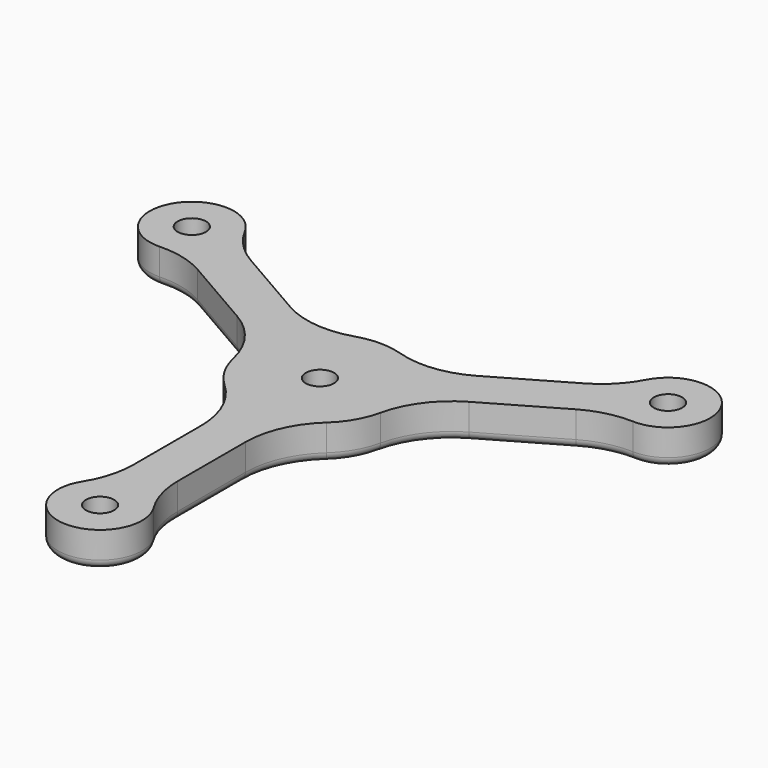
from build123d import *

# Parameters (mm, degrees)
F0_R     = 1.6
F1_DEPTH = 4
F2_DEPTH = 2
F3_R     = 1
F4_DEPTH = 4
F5_DEPTH = 2
F6_R     = 1


with BuildPart() as f1:
    # F0 (on Top) → F1 (new body)
    with BuildSketch(Plane.XY):
        with BuildLine():
            Line((2.5, -23.1697701183), (2.5, -13.638181697))
            ThreePointArc((2.5, -13.638181697), (3.346651772, -9.6112453657), (5.7432432432, -6.2661915905))
            ThreePointArc((5.7432432432, -6.2661915905), (7.3612159322, -4.25), (8.298302724, -1.8406987535))
            ThreePointArc((8.298302724, -1.8406987535), (9.9969085347, 1.9073372307), (13.061011811, 4.654027339))
            Line((13.061011811, 4.654027339), (21.3156095223, 9.4198215497))
            ThreePointArc((21.3156095223, 9.4198215497), (23.9017919503, 10.4638698942), (26.6757301969, 10.7530810631))
            ThreePointArc((26.6757301969, 10.7530810631), (30.9604081853, 17.875), (22.6503064681, 17.7253194834))
            ThreePointArc((22.6503064681, 17.7253194834), (21.0128731254, 15.4676240778), (18.8156095223, 13.7499485686))
            Line((18.8156095223, 13.7499485686), (10.561011811, 8.984154358))
            ThreePointArc((10.561011811, 8.984154358), (6.6502567627, 7.703908135), (2.5550594807, 8.106890344))
            ThreePointArc((2.5550594807, 8.106890344), (0, 8.5), (-2.5550594807, 8.106890344))
            ThreePointArc((-2.5550594807, 8.106890344), (-6.6502567627, 7.703908135), (-10.561011811, 8.984154358))
            Line((-10.561011811, 8.984154358), (-18.8156095223, 13.7499485686))
            ThreePointArc((-18.8156095223, 13.7499485686), (-21.0128731254, 15.4676240778), (-22.6503064681, 17.7253194834))
            ThreePointArc((-22.6503064681, 17.7253194834), (-30.9604081853, 17.875), (-26.6757301969, 10.7530810631))
            ThreePointArc((-26.6757301969, 10.7530810631), (-23.9017919503, 10.4638698942), (-21.3156095223, 9.4198215497))
            Line((-21.3156095223, 9.4198215497), (-13.061011811, 4.654027339))
            ThreePointArc((-13.061011811, 4.654027339), (-9.9969085347, 1.9073372307), (-8.298302724, -1.8406987535))
            ThreePointArc((-8.298302724, -1.8406987535), (-7.3612159322, -4.25), (-5.7432432432, -6.2661915905))
            ThreePointArc((-5.7432432432, -6.2661915905), (-3.346651772, -9.6112453657), (-2.5, -13.638181697))
            Line((-2.5, -13.638181697), (-2.5, -23.1697701183))
            ThreePointArc((-2.5, -23.1697701183), (-2.8889188248, -25.931493972), (-4.0254237288, -28.4784005466))
            ThreePointArc((-4.0254237288, -28.4784005466), (0, -35.75), (4.0254237288, -28.4784005466))
            ThreePointArc((4.0254237288, -28.4784005466), (2.8889188248, -25.931493972), (2.5, -23.1697701183))
        make_face()
        Polygon((1.6165807537, -28.2), (2.4248711592, -29.6000000495), (3.2331615075, -31), (2.4248710754, -32.4000000956), (1.6165807537, -33.8), (0, -33.8), (-1.6165807537, -33.8), (-2.4248711353, -32.3999999918), (-3.2331615075, -31), (-2.4248711124, -29.5999999685), (-1.6165807537, -28.2), (0, -28.2), align=None, mode=Mode.SUBTRACT)
        Polygon((-25.2302067636, 18.3), (-24.4219163221, 16.899999888), (-23.6136260099, 15.5), (-24.4219164419, 14.0999999044), (-25.2302067636, 12.7), (-26.8467875173, 12.7), (-28.463368271, 12.7), (-29.2716586526, 14.1000000082), (-30.0799490248, 15.5), (-29.2716586526, 16.8999999918), (-28.463368271, 18.3), (-26.8467875173, 18.3), align=None, mode=Mode.SUBTRACT)
        Polygon((0, -2.8), (-1.6165807537, -2.8), (-2.4248712235, -1.399999839), (-3.2331615075, 0), (-2.4248712552, 1.3999997842), (-1.6165807537, 2.8), (0, 2.8), (1.6165807537, 2.8), (2.4248711353, 1.3999999918), (3.2331615075, 0), (2.4248711257, -1.4000000085), (1.6165807537, -2.8), align=None, mode=Mode.SUBTRACT)
        Polygon((28.463368271, 18.3), (29.2716587126, 16.899999888), (30.0799490248, 15.5), (29.2716587126, 14.100000112), (28.463368271, 12.7), (26.8467875173, 12.7), (25.2302067636, 12.7), (24.421916382, 14.1000000082), (23.6136260099, 15.5), (24.421916285, 16.8999998239), (25.2302067636, 18.3), (26.8467875173, 18.3), align=None, mode=Mode.SUBTRACT)
        with BuildLine():
            ThreePointArc((-24.4219164419, 14.0999999044), (-24.142195218, 14.7753066204), (-24.0467875173, 15.5))
            ThreePointArc((-24.0467875173, 15.5), (-24.142195187, 16.2246932638), (-24.4219163221, 16.899999888))
            ThreePointArc((-24.4219163221, 16.899999888), (-25.4467874613, 17.9248710983), (-26.8467875173, 18.3))
            ThreePointArc((-26.8467875173, 18.3), (-28.2467875214, 17.9248711282), (-29.2716586526, 16.8999999918))
            ThreePointArc((-29.2716586526, 16.8999999918), (-29.6467875173, 15.5), (-29.2716586526, 14.1000000082))
            ThreePointArc((-29.2716586526, 14.1000000082), (-28.2467875214, 13.0751288718), (-26.8467875173, 12.7))
            ThreePointArc((-26.8467875173, 12.7), (-25.4467875651, 13.0751288418), (-24.4219164419, 14.0999999044))
        make_face()
        with Locations((-26.8467875173, 15.5)):
            Circle(F0_R, mode=Mode.SUBTRACT)
        with BuildLine():
            ThreePointArc((-2.4248712552, 1.3999997842), (-2.8, -3.16e-08), (-2.4248712235, -1.399999839))
            ThreePointArc((-2.4248712235, -1.399999839), (-1.4000000805, -2.4248710841), (0, -2.8))
            ThreePointArc((0, -2.8), (1.3999999958, -2.424871133), (2.4248711257, -1.4000000085))
            ThreePointArc((2.4248711257, -1.4000000085), (2.7045923123, -0.724693331), (2.8, 0))
            ThreePointArc((2.8, 0), (2.7045923148, 0.7246933217), (2.4248711353, 1.3999999918))
            ThreePointArc((2.4248711353, 1.3999999918), (1.4000000041, 2.4248711282), (0, 2.8))
            ThreePointArc((0, 2.8), (-1.4000001079, 2.4248710683), (-2.4248712552, 1.3999997842))
        make_face()
        Circle(F0_R, mode=Mode.SUBTRACT)
        with BuildLine():
            ThreePointArc((29.2716587126, 14.100000112), (29.5513798477, 14.7753067362), (29.6467875173, 15.5))
            ThreePointArc((29.6467875173, 15.5), (29.5513798477, 16.2246932638), (29.2716587126, 16.899999888))
            ThreePointArc((29.2716587126, 16.899999888), (28.2467875733, 17.9248710983), (26.8467875173, 18.3))
            ThreePointArc((26.8467875173, 18.3), (25.4467874293, 17.9248710798), (24.421916285, 16.8999998239))
            ThreePointArc((24.421916285, 16.8999998239), (24.0467875173, 15.499999903), (24.421916382, 14.1000000082))
            ThreePointArc((24.421916382, 14.1000000082), (25.4467875132, 13.0751288718), (26.8467875173, 12.7))
            ThreePointArc((26.8467875173, 12.7), (28.2467875733, 13.0751289017), (29.2716587126, 14.100000112))
        make_face()
        with Locations((26.8467875173, 15.5)):
            Circle(F0_R, mode=Mode.SUBTRACT)
        with BuildLine():
            ThreePointArc((2.4248710754, -32.4000000956), (2.7045922993, -31.7246933796), (2.8, -31))
            ThreePointArc((2.8, -31), (2.704592321, -30.2753067013), (2.4248711592, -29.6000000495))
            ThreePointArc((2.4248711592, -29.6000000495), (1.4000000248, -28.5751288837), (0, -28.2))
            ThreePointArc((0, -28.2), (-1.3999999843, -28.5751288603), (-2.4248711124, -29.5999999685))
            ThreePointArc((-2.4248711124, -29.5999999685), (-2.8, -30.9999999771), (-2.4248711353, -32.3999999918))
            ThreePointArc((-2.4248711353, -32.3999999918), (-1.4000000041, -33.4248711282), (0, -33.8))
            ThreePointArc((0, -33.8), (1.3999999522, -33.4248711582), (2.4248710754, -32.4000000956))
        make_face()
        with Locations((0, -31)):
            Circle(F0_R, mode=Mode.SUBTRACT)
        with BuildLine():
            ThreePointArc((-29.2716586526, 16.8999999918), (-28.2467875214, 17.9248711282), (-26.8467875173, 18.3))
            Line((-26.8467875173, 18.3), (-28.463368271, 18.3))
            Line((-28.463368271, 18.3), (-29.2716586526, 16.8999999918))
        make_face()
        with BuildLine():
            ThreePointArc((-29.2716586526, 14.1000000082), (-29.6467875173, 15.5), (-29.2716586526, 16.8999999918))
            Line((-29.2716586526, 16.8999999918), (-30.0799490248, 15.5))
            Line((-30.0799490248, 15.5), (-29.2716586526, 14.1000000082))
        make_face()
        with BuildLine():
            Line((-28.463368271, 12.7), (-26.8467875173, 12.7))
            ThreePointArc((-26.8467875173, 12.7), (-28.2467875214, 13.0751288718), (-29.2716586526, 14.1000000082))
            Line((-29.2716586526, 14.1000000082), (-28.463368271, 12.7))
        make_face()
        with BuildLine():
            ThreePointArc((-26.8467875173, 18.3), (-25.4467874613, 17.9248710983), (-24.4219163221, 16.899999888))
            Line((-24.4219163221, 16.899999888), (-25.2302067636, 18.3))
            Line((-25.2302067636, 18.3), (-26.8467875173, 18.3))
        make_face()
        with BuildLine():
            ThreePointArc((-24.4219163221, 16.899999888), (-24.142195187, 16.2246932638), (-24.0467875173, 15.5))
            ThreePointArc((-24.0467875173, 15.5), (-24.142195218, 14.7753066204), (-24.4219164419, 14.0999999044))
            Line((-24.4219164419, 14.0999999044), (-23.6136260099, 15.5))
            Line((-23.6136260099, 15.5), (-24.4219163221, 16.899999888))
        make_face()
        with BuildLine():
            Line((-25.2302067636, 12.7), (-24.4219164419, 14.0999999044))
            ThreePointArc((-24.4219164419, 14.0999999044), (-25.4467875651, 13.0751288418), (-26.8467875173, 12.7))
            Line((-26.8467875173, 12.7), (-25.2302067636, 12.7))
        make_face()
        with BuildLine():
            Line((-1.6165807537, 2.8), (-2.4248712552, 1.3999997842))
            ThreePointArc((-2.4248712552, 1.3999997842), (-1.4000001079, 2.4248710683), (0, 2.8))
            Line((0, 2.8), (-1.6165807537, 2.8))
        make_face()
        with BuildLine():
            Line((1.6165807537, 2.8), (0, 2.8))
            ThreePointArc((0, 2.8), (1.4000000041, 2.4248711282), (2.4248711353, 1.3999999918))
            Line((2.4248711353, 1.3999999918), (1.6165807537, 2.8))
        make_face()
        with BuildLine():
            ThreePointArc((2.8, 0), (2.7045923123, -0.724693331), (2.4248711257, -1.4000000085))
            Line((2.4248711257, -1.4000000085), (3.2331615075, 0))
            Line((3.2331615075, 0), (2.4248711353, 1.3999999918))
            ThreePointArc((2.4248711353, 1.3999999918), (2.7045923148, 0.7246933217), (2.8, 0))
        make_face()
        with BuildLine():
            ThreePointArc((2.4248711257, -1.4000000085), (1.3999999958, -2.424871133), (0, -2.8))
            Line((0, -2.8), (1.6165807537, -2.8))
            Line((1.6165807537, -2.8), (2.4248711257, -1.4000000085))
        make_face()
        with BuildLine():
            Line((-2.4248712235, -1.399999839), (-1.6165807537, -2.8))
            Line((-1.6165807537, -2.8), (0, -2.8))
            ThreePointArc((0, -2.8), (-1.4000000805, -2.4248710841), (-2.4248712235, -1.399999839))
        make_face()
        with BuildLine():
            Line((-3.2331615075, 0), (-2.4248712235, -1.399999839))
            ThreePointArc((-2.4248712235, -1.399999839), (-2.8, -3.16e-08), (-2.4248712552, 1.3999997842))
            Line((-2.4248712552, 1.3999997842), (-3.2331615075, 0))
        make_face()
        with BuildLine():
            ThreePointArc((24.421916285, 16.8999998239), (25.4467874293, 17.9248710798), (26.8467875173, 18.3))
            Line((26.8467875173, 18.3), (25.2302067636, 18.3))
            Line((25.2302067636, 18.3), (24.421916285, 16.8999998239))
        make_face()
        with BuildLine():
            ThreePointArc((24.421916382, 14.1000000082), (24.0467875173, 15.499999903), (24.421916285, 16.8999998239))
            Line((24.421916285, 16.8999998239), (23.6136260099, 15.5))
            Line((23.6136260099, 15.5), (24.421916382, 14.1000000082))
        make_face()
        with BuildLine():
            Line((25.2302067636, 12.7), (26.8467875173, 12.7))
            ThreePointArc((26.8467875173, 12.7), (25.4467875132, 13.0751288718), (24.421916382, 14.1000000082))
            Line((24.421916382, 14.1000000082), (25.2302067636, 12.7))
        make_face()
        with BuildLine():
            Line((28.463368271, 12.7), (29.2716587126, 14.100000112))
            ThreePointArc((29.2716587126, 14.100000112), (28.2467875733, 13.0751289017), (26.8467875173, 12.7))
            Line((26.8467875173, 12.7), (28.463368271, 12.7))
        make_face()
        with BuildLine():
            ThreePointArc((29.2716587126, 16.899999888), (29.5513798477, 16.2246932638), (29.6467875173, 15.5))
            ThreePointArc((29.6467875173, 15.5), (29.5513798477, 14.7753067362), (29.2716587126, 14.100000112))
            Line((29.2716587126, 14.100000112), (30.0799490248, 15.5))
            Line((30.0799490248, 15.5), (29.2716587126, 16.899999888))
        make_face()
        with BuildLine():
            ThreePointArc((26.8467875173, 18.3), (28.2467875733, 17.9248710983), (29.2716587126, 16.899999888))
            Line((29.2716587126, 16.899999888), (28.463368271, 18.3))
            Line((28.463368271, 18.3), (26.8467875173, 18.3))
        make_face()
        with BuildLine():
            ThreePointArc((-2.4248711353, -32.3999999918), (-2.8, -30.9999999771), (-2.4248711124, -29.5999999685))
            Line((-2.4248711124, -29.5999999685), (-3.2331615075, -31))
            Line((-3.2331615075, -31), (-2.4248711353, -32.3999999918))
        make_face()
        with BuildLine():
            ThreePointArc((-2.4248711124, -29.5999999685), (-1.3999999843, -28.5751288603), (0, -28.2))
            Line((0, -28.2), (-1.6165807537, -28.2))
            Line((-1.6165807537, -28.2), (-2.4248711124, -29.5999999685))
        make_face()
        with BuildLine():
            ThreePointArc((0, -28.2), (1.4000000248, -28.5751288837), (2.4248711592, -29.6000000495))
            Line((2.4248711592, -29.6000000495), (1.6165807537, -28.2))
            Line((1.6165807537, -28.2), (0, -28.2))
        make_face()
        with BuildLine():
            ThreePointArc((2.4248711592, -29.6000000495), (2.704592321, -30.2753067013), (2.8, -31))
            ThreePointArc((2.8, -31), (2.7045922993, -31.7246933796), (2.4248710754, -32.4000000956))
            Line((2.4248710754, -32.4000000956), (3.2331615075, -31))
            Line((3.2331615075, -31), (2.4248711592, -29.6000000495))
        make_face()
        with BuildLine():
            Line((1.6165807537, -33.8), (2.4248710754, -32.4000000956))
            ThreePointArc((2.4248710754, -32.4000000956), (1.3999999522, -33.4248711582), (0, -33.8))
            Line((0, -33.8), (1.6165807537, -33.8))
        make_face()
        with BuildLine():
            Line((-1.6165807537, -33.8), (0, -33.8))
            ThreePointArc((0, -33.8), (-1.4000000041, -33.4248711282), (-2.4248711353, -32.3999999918))
            Line((-2.4248711353, -32.3999999918), (-1.6165807537, -33.8))
        make_face()
    extrude(amount=F1_DEPTH)

    # F0 (on Top) → F2 (cut)
    with BuildSketch(Plane.XY):
        with BuildLine():
            Line((-28.463368271, 12.7), (-26.8467875173, 12.7))
            ThreePointArc((-26.8467875173, 12.7), (-28.2467875214, 13.0751288718), (-29.2716586526, 14.1000000082))
            Line((-29.2716586526, 14.1000000082), (-28.463368271, 12.7))
        make_face()
        with BuildLine():
            ThreePointArc((-24.4219164419, 14.0999999044), (-24.142195218, 14.7753066204), (-24.0467875173, 15.5))
            ThreePointArc((-24.0467875173, 15.5), (-24.142195187, 16.2246932638), (-24.4219163221, 16.899999888))
            ThreePointArc((-24.4219163221, 16.899999888), (-25.4467874613, 17.9248710983), (-26.8467875173, 18.3))
            ThreePointArc((-26.8467875173, 18.3), (-28.2467875214, 17.9248711282), (-29.2716586526, 16.8999999918))
            ThreePointArc((-29.2716586526, 16.8999999918), (-29.6467875173, 15.5), (-29.2716586526, 14.1000000082))
            ThreePointArc((-29.2716586526, 14.1000000082), (-28.2467875214, 13.0751288718), (-26.8467875173, 12.7))
            ThreePointArc((-26.8467875173, 12.7), (-25.4467875651, 13.0751288418), (-24.4219164419, 14.0999999044))
        make_face()
        with Locations((-26.8467875173, 15.5)):
            Circle(F0_R, mode=Mode.SUBTRACT)
        with BuildLine():
            ThreePointArc((-29.2716586526, 14.1000000082), (-29.6467875173, 15.5), (-29.2716586526, 16.8999999918))
            Line((-29.2716586526, 16.8999999918), (-30.0799490248, 15.5))
            Line((-30.0799490248, 15.5), (-29.2716586526, 14.1000000082))
        make_face()
        with BuildLine():
            ThreePointArc((-29.2716586526, 16.8999999918), (-28.2467875214, 17.9248711282), (-26.8467875173, 18.3))
            Line((-26.8467875173, 18.3), (-28.463368271, 18.3))
            Line((-28.463368271, 18.3), (-29.2716586526, 16.8999999918))
        make_face()
        with BuildLine():
            ThreePointArc((-26.8467875173, 18.3), (-25.4467874613, 17.9248710983), (-24.4219163221, 16.899999888))
            Line((-24.4219163221, 16.899999888), (-25.2302067636, 18.3))
            Line((-25.2302067636, 18.3), (-26.8467875173, 18.3))
        make_face()
        with BuildLine():
            ThreePointArc((-24.4219163221, 16.899999888), (-24.142195187, 16.2246932638), (-24.0467875173, 15.5))
            ThreePointArc((-24.0467875173, 15.5), (-24.142195218, 14.7753066204), (-24.4219164419, 14.0999999044))
            Line((-24.4219164419, 14.0999999044), (-23.6136260099, 15.5))
            Line((-23.6136260099, 15.5), (-24.4219163221, 16.899999888))
        make_face()
        with BuildLine():
            Line((-25.2302067636, 12.7), (-24.4219164419, 14.0999999044))
            ThreePointArc((-24.4219164419, 14.0999999044), (-25.4467875651, 13.0751288418), (-26.8467875173, 12.7))
            Line((-26.8467875173, 12.7), (-25.2302067636, 12.7))
        make_face()
        with BuildLine():
            Line((-3.2331615075, 0), (-2.4248712235, -1.399999839))
            ThreePointArc((-2.4248712235, -1.399999839), (-2.8, -3.16e-08), (-2.4248712552, 1.3999997842))
            Line((-2.4248712552, 1.3999997842), (-3.2331615075, 0))
        make_face()
        with BuildLine():
            Line((-2.4248712235, -1.399999839), (-1.6165807537, -2.8))
            Line((-1.6165807537, -2.8), (0, -2.8))
            ThreePointArc((0, -2.8), (-1.4000000805, -2.4248710841), (-2.4248712235, -1.399999839))
        make_face()
        with BuildLine():
            ThreePointArc((2.4248711257, -1.4000000085), (1.3999999958, -2.424871133), (0, -2.8))
            Line((0, -2.8), (1.6165807537, -2.8))
            Line((1.6165807537, -2.8), (2.4248711257, -1.4000000085))
        make_face()
        with BuildLine():
            ThreePointArc((2.8, 0), (2.7045923123, -0.724693331), (2.4248711257, -1.4000000085))
            Line((2.4248711257, -1.4000000085), (3.2331615075, 0))
            Line((3.2331615075, 0), (2.4248711353, 1.3999999918))
            ThreePointArc((2.4248711353, 1.3999999918), (2.7045923148, 0.7246933217), (2.8, 0))
        make_face()
        with BuildLine():
            Line((1.6165807537, 2.8), (0, 2.8))
            ThreePointArc((0, 2.8), (1.4000000041, 2.4248711282), (2.4248711353, 1.3999999918))
            Line((2.4248711353, 1.3999999918), (1.6165807537, 2.8))
        make_face()
        with BuildLine():
            Line((-1.6165807537, 2.8), (-2.4248712552, 1.3999997842))
            ThreePointArc((-2.4248712552, 1.3999997842), (-1.4000001079, 2.4248710683), (0, 2.8))
            Line((0, 2.8), (-1.6165807537, 2.8))
        make_face()
        with BuildLine():
            ThreePointArc((-2.4248712552, 1.3999997842), (-2.8, -3.16e-08), (-2.4248712235, -1.399999839))
            ThreePointArc((-2.4248712235, -1.399999839), (-1.4000000805, -2.4248710841), (0, -2.8))
            ThreePointArc((0, -2.8), (1.3999999958, -2.424871133), (2.4248711257, -1.4000000085))
            ThreePointArc((2.4248711257, -1.4000000085), (2.7045923123, -0.724693331), (2.8, 0))
            ThreePointArc((2.8, 0), (2.7045923148, 0.7246933217), (2.4248711353, 1.3999999918))
            ThreePointArc((2.4248711353, 1.3999999918), (1.4000000041, 2.4248711282), (0, 2.8))
            ThreePointArc((0, 2.8), (-1.4000001079, 2.4248710683), (-2.4248712552, 1.3999997842))
        make_face()
        Circle(F0_R, mode=Mode.SUBTRACT)
        with BuildLine():
            ThreePointArc((29.2716587126, 14.100000112), (29.5513798477, 14.7753067362), (29.6467875173, 15.5))
            ThreePointArc((29.6467875173, 15.5), (29.5513798477, 16.2246932638), (29.2716587126, 16.899999888))
            ThreePointArc((29.2716587126, 16.899999888), (28.2467875733, 17.9248710983), (26.8467875173, 18.3))
            ThreePointArc((26.8467875173, 18.3), (25.4467874293, 17.9248710798), (24.421916285, 16.8999998239))
            ThreePointArc((24.421916285, 16.8999998239), (24.0467875173, 15.499999903), (24.421916382, 14.1000000082))
            ThreePointArc((24.421916382, 14.1000000082), (25.4467875132, 13.0751288718), (26.8467875173, 12.7))
            ThreePointArc((26.8467875173, 12.7), (28.2467875733, 13.0751289017), (29.2716587126, 14.100000112))
        make_face()
        with Locations((26.8467875173, 15.5)):
            Circle(F0_R, mode=Mode.SUBTRACT)
        with BuildLine():
            ThreePointArc((24.421916382, 14.1000000082), (24.0467875173, 15.499999903), (24.421916285, 16.8999998239))
            Line((24.421916285, 16.8999998239), (23.6136260099, 15.5))
            Line((23.6136260099, 15.5), (24.421916382, 14.1000000082))
        make_face()
        with BuildLine():
            Line((25.2302067636, 12.7), (26.8467875173, 12.7))
            ThreePointArc((26.8467875173, 12.7), (25.4467875132, 13.0751288718), (24.421916382, 14.1000000082))
            Line((24.421916382, 14.1000000082), (25.2302067636, 12.7))
        make_face()
        with BuildLine():
            Line((28.463368271, 12.7), (29.2716587126, 14.100000112))
            ThreePointArc((29.2716587126, 14.100000112), (28.2467875733, 13.0751289017), (26.8467875173, 12.7))
            Line((26.8467875173, 12.7), (28.463368271, 12.7))
        make_face()
        with BuildLine():
            ThreePointArc((29.2716587126, 16.899999888), (29.5513798477, 16.2246932638), (29.6467875173, 15.5))
            ThreePointArc((29.6467875173, 15.5), (29.5513798477, 14.7753067362), (29.2716587126, 14.100000112))
            Line((29.2716587126, 14.100000112), (30.0799490248, 15.5))
            Line((30.0799490248, 15.5), (29.2716587126, 16.899999888))
        make_face()
        with BuildLine():
            ThreePointArc((26.8467875173, 18.3), (28.2467875733, 17.9248710983), (29.2716587126, 16.899999888))
            Line((29.2716587126, 16.899999888), (28.463368271, 18.3))
            Line((28.463368271, 18.3), (26.8467875173, 18.3))
        make_face()
        with BuildLine():
            ThreePointArc((24.421916285, 16.8999998239), (25.4467874293, 17.9248710798), (26.8467875173, 18.3))
            Line((26.8467875173, 18.3), (25.2302067636, 18.3))
            Line((25.2302067636, 18.3), (24.421916285, 16.8999998239))
        make_face()
        with BuildLine():
            ThreePointArc((2.4248710754, -32.4000000956), (2.7045922993, -31.7246933796), (2.8, -31))
            ThreePointArc((2.8, -31), (2.704592321, -30.2753067013), (2.4248711592, -29.6000000495))
            ThreePointArc((2.4248711592, -29.6000000495), (1.4000000248, -28.5751288837), (0, -28.2))
            ThreePointArc((0, -28.2), (-1.3999999843, -28.5751288603), (-2.4248711124, -29.5999999685))
            ThreePointArc((-2.4248711124, -29.5999999685), (-2.8, -30.9999999771), (-2.4248711353, -32.3999999918))
            ThreePointArc((-2.4248711353, -32.3999999918), (-1.4000000041, -33.4248711282), (0, -33.8))
            ThreePointArc((0, -33.8), (1.3999999522, -33.4248711582), (2.4248710754, -32.4000000956))
        make_face()
        with Locations((0, -31)):
            Circle(F0_R, mode=Mode.SUBTRACT)
        with BuildLine():
            Line((-1.6165807537, -33.8), (0, -33.8))
            ThreePointArc((0, -33.8), (-1.4000000041, -33.4248711282), (-2.4248711353, -32.3999999918))
            Line((-2.4248711353, -32.3999999918), (-1.6165807537, -33.8))
        make_face()
        with BuildLine():
            Line((1.6165807537, -33.8), (2.4248710754, -32.4000000956))
            ThreePointArc((2.4248710754, -32.4000000956), (1.3999999522, -33.4248711582), (0, -33.8))
            Line((0, -33.8), (1.6165807537, -33.8))
        make_face()
        with BuildLine():
            ThreePointArc((2.4248711592, -29.6000000495), (2.704592321, -30.2753067013), (2.8, -31))
            ThreePointArc((2.8, -31), (2.7045922993, -31.7246933796), (2.4248710754, -32.4000000956))
            Line((2.4248710754, -32.4000000956), (3.2331615075, -31))
            Line((3.2331615075, -31), (2.4248711592, -29.6000000495))
        make_face()
        with BuildLine():
            ThreePointArc((0, -28.2), (1.4000000248, -28.5751288837), (2.4248711592, -29.6000000495))
            Line((2.4248711592, -29.6000000495), (1.6165807537, -28.2))
            Line((1.6165807537, -28.2), (0, -28.2))
        make_face()
        with BuildLine():
            ThreePointArc((-2.4248711124, -29.5999999685), (-1.3999999843, -28.5751288603), (0, -28.2))
            Line((0, -28.2), (-1.6165807537, -28.2))
            Line((-1.6165807537, -28.2), (-2.4248711124, -29.5999999685))
        make_face()
        with BuildLine():
            ThreePointArc((-2.4248711353, -32.3999999918), (-2.8, -30.9999999771), (-2.4248711124, -29.5999999685))
            Line((-2.4248711124, -29.5999999685), (-3.2331615075, -31))
            Line((-3.2331615075, -31), (-2.4248711353, -32.3999999918))
        make_face()
    extrude(amount=F2_DEPTH, mode=Mode.SUBTRACT)

    # F3
    f3_edges = [f1.edges().sort_by_distance(p)[0] for p in [
        (-2.5, -18.403976, 0),
    ]]
    fillet(f3_edges, radius=F3_R)


with BuildPart() as f4:
    # F0 (on Top) → F4 (new body)
    with BuildSketch(Plane.XY):
        with BuildLine():
            Line((2.5, -23.1697701183), (2.5, -13.638181697))
            ThreePointArc((2.5, -13.638181697), (3.346651772, -9.6112453657), (5.7432432432, -6.2661915905))
            ThreePointArc((5.7432432432, -6.2661915905), (7.3612159322, -4.25), (8.298302724, -1.8406987535))
            ThreePointArc((8.298302724, -1.8406987535), (9.9969085347, 1.9073372307), (13.061011811, 4.654027339))
            Line((13.061011811, 4.654027339), (21.3156095223, 9.4198215497))
            ThreePointArc((21.3156095223, 9.4198215497), (23.9017919503, 10.4638698942), (26.6757301969, 10.7530810631))
            ThreePointArc((26.6757301969, 10.7530810631), (30.9604081853, 17.875), (22.6503064681, 17.7253194834))
            ThreePointArc((22.6503064681, 17.7253194834), (21.0128731254, 15.4676240778), (18.8156095223, 13.7499485686))
            Line((18.8156095223, 13.7499485686), (10.561011811, 8.984154358))
            ThreePointArc((10.561011811, 8.984154358), (6.6502567627, 7.703908135), (2.5550594807, 8.106890344))
            ThreePointArc((2.5550594807, 8.106890344), (0, 8.5), (-2.5550594807, 8.106890344))
            ThreePointArc((-2.5550594807, 8.106890344), (-6.6502567627, 7.703908135), (-10.561011811, 8.984154358))
            Line((-10.561011811, 8.984154358), (-18.8156095223, 13.7499485686))
            ThreePointArc((-18.8156095223, 13.7499485686), (-21.0128731254, 15.4676240778), (-22.6503064681, 17.7253194834))
            ThreePointArc((-22.6503064681, 17.7253194834), (-30.9604081853, 17.875), (-26.6757301969, 10.7530810631))
            ThreePointArc((-26.6757301969, 10.7530810631), (-23.9017919503, 10.4638698942), (-21.3156095223, 9.4198215497))
            Line((-21.3156095223, 9.4198215497), (-13.061011811, 4.654027339))
            ThreePointArc((-13.061011811, 4.654027339), (-9.9969085347, 1.9073372307), (-8.298302724, -1.8406987535))
            ThreePointArc((-8.298302724, -1.8406987535), (-7.3612159322, -4.25), (-5.7432432432, -6.2661915905))
            ThreePointArc((-5.7432432432, -6.2661915905), (-3.346651772, -9.6112453657), (-2.5, -13.638181697))
            Line((-2.5, -13.638181697), (-2.5, -23.1697701183))
            ThreePointArc((-2.5, -23.1697701183), (-2.8889188248, -25.931493972), (-4.0254237288, -28.4784005466))
            ThreePointArc((-4.0254237288, -28.4784005466), (0, -35.75), (4.0254237288, -28.4784005466))
            ThreePointArc((4.0254237288, -28.4784005466), (2.8889188248, -25.931493972), (2.5, -23.1697701183))
        make_face()
        Polygon((1.6165807537, -28.2), (2.4248711592, -29.6000000495), (3.2331615075, -31), (2.4248710754, -32.4000000956), (1.6165807537, -33.8), (0, -33.8), (-1.6165807537, -33.8), (-2.4248711353, -32.3999999918), (-3.2331615075, -31), (-2.4248711124, -29.5999999685), (-1.6165807537, -28.2), (0, -28.2), align=None, mode=Mode.SUBTRACT)
        Polygon((-25.2302067636, 18.3), (-24.4219163221, 16.899999888), (-23.6136260099, 15.5), (-24.4219164419, 14.0999999044), (-25.2302067636, 12.7), (-26.8467875173, 12.7), (-28.463368271, 12.7), (-29.2716586526, 14.1000000082), (-30.0799490248, 15.5), (-29.2716586526, 16.8999999918), (-28.463368271, 18.3), (-26.8467875173, 18.3), align=None, mode=Mode.SUBTRACT)
        Polygon((0, -2.8), (-1.6165807537, -2.8), (-2.4248712235, -1.399999839), (-3.2331615075, 0), (-2.4248712552, 1.3999997842), (-1.6165807537, 2.8), (0, 2.8), (1.6165807537, 2.8), (2.4248711353, 1.3999999918), (3.2331615075, 0), (2.4248711257, -1.4000000085), (1.6165807537, -2.8), align=None, mode=Mode.SUBTRACT)
        Polygon((28.463368271, 18.3), (29.2716587126, 16.899999888), (30.0799490248, 15.5), (29.2716587126, 14.100000112), (28.463368271, 12.7), (26.8467875173, 12.7), (25.2302067636, 12.7), (24.421916382, 14.1000000082), (23.6136260099, 15.5), (24.421916285, 16.8999998239), (25.2302067636, 18.3), (26.8467875173, 18.3), align=None, mode=Mode.SUBTRACT)
        with BuildLine():
            ThreePointArc((-29.2716586526, 14.1000000082), (-29.6467875173, 15.5), (-29.2716586526, 16.8999999918))
            Line((-29.2716586526, 16.8999999918), (-30.0799490248, 15.5))
            Line((-30.0799490248, 15.5), (-29.2716586526, 14.1000000082))
        make_face()
        with BuildLine():
            ThreePointArc((-24.4219164419, 14.0999999044), (-24.142195218, 14.7753066204), (-24.0467875173, 15.5))
            ThreePointArc((-24.0467875173, 15.5), (-24.142195187, 16.2246932638), (-24.4219163221, 16.899999888))
            ThreePointArc((-24.4219163221, 16.899999888), (-25.4467874613, 17.9248710983), (-26.8467875173, 18.3))
            ThreePointArc((-26.8467875173, 18.3), (-28.2467875214, 17.9248711282), (-29.2716586526, 16.8999999918))
            ThreePointArc((-29.2716586526, 16.8999999918), (-29.6467875173, 15.5), (-29.2716586526, 14.1000000082))
            ThreePointArc((-29.2716586526, 14.1000000082), (-28.2467875214, 13.0751288718), (-26.8467875173, 12.7))
            ThreePointArc((-26.8467875173, 12.7), (-25.4467875651, 13.0751288418), (-24.4219164419, 14.0999999044))
        make_face()
        with Locations((-26.8467875173, 15.5)):
            Circle(F0_R, mode=Mode.SUBTRACT)
        with BuildLine():
            Line((-28.463368271, 12.7), (-26.8467875173, 12.7))
            ThreePointArc((-26.8467875173, 12.7), (-28.2467875214, 13.0751288718), (-29.2716586526, 14.1000000082))
            Line((-29.2716586526, 14.1000000082), (-28.463368271, 12.7))
        make_face()
        with BuildLine():
            Line((-25.2302067636, 12.7), (-24.4219164419, 14.0999999044))
            ThreePointArc((-24.4219164419, 14.0999999044), (-25.4467875651, 13.0751288418), (-26.8467875173, 12.7))
            Line((-26.8467875173, 12.7), (-25.2302067636, 12.7))
        make_face()
        with BuildLine():
            ThreePointArc((-24.4219163221, 16.899999888), (-24.142195187, 16.2246932638), (-24.0467875173, 15.5))
            ThreePointArc((-24.0467875173, 15.5), (-24.142195218, 14.7753066204), (-24.4219164419, 14.0999999044))
            Line((-24.4219164419, 14.0999999044), (-23.6136260099, 15.5))
            Line((-23.6136260099, 15.5), (-24.4219163221, 16.899999888))
        make_face()
        with BuildLine():
            ThreePointArc((-26.8467875173, 18.3), (-25.4467874613, 17.9248710983), (-24.4219163221, 16.899999888))
            Line((-24.4219163221, 16.899999888), (-25.2302067636, 18.3))
            Line((-25.2302067636, 18.3), (-26.8467875173, 18.3))
        make_face()
        with BuildLine():
            ThreePointArc((-29.2716586526, 16.8999999918), (-28.2467875214, 17.9248711282), (-26.8467875173, 18.3))
            Line((-26.8467875173, 18.3), (-28.463368271, 18.3))
            Line((-28.463368271, 18.3), (-29.2716586526, 16.8999999918))
        make_face()
        with BuildLine():
            ThreePointArc((-2.4248712552, 1.3999997842), (-2.8, -3.16e-08), (-2.4248712235, -1.399999839))
            ThreePointArc((-2.4248712235, -1.399999839), (-1.4000000805, -2.4248710841), (0, -2.8))
            ThreePointArc((0, -2.8), (1.3999999958, -2.424871133), (2.4248711257, -1.4000000085))
            ThreePointArc((2.4248711257, -1.4000000085), (2.7045923123, -0.724693331), (2.8, 0))
            ThreePointArc((2.8, 0), (2.7045923148, 0.7246933217), (2.4248711353, 1.3999999918))
            ThreePointArc((2.4248711353, 1.3999999918), (1.4000000041, 2.4248711282), (0, 2.8))
            ThreePointArc((0, 2.8), (-1.4000001079, 2.4248710683), (-2.4248712552, 1.3999997842))
        make_face()
        Circle(F0_R, mode=Mode.SUBTRACT)
        with BuildLine():
            Line((-1.6165807537, 2.8), (-2.4248712552, 1.3999997842))
            ThreePointArc((-2.4248712552, 1.3999997842), (-1.4000001079, 2.4248710683), (0, 2.8))
            Line((0, 2.8), (-1.6165807537, 2.8))
        make_face()
        with BuildLine():
            Line((-3.2331615075, 0), (-2.4248712235, -1.399999839))
            ThreePointArc((-2.4248712235, -1.399999839), (-2.8, -3.16e-08), (-2.4248712552, 1.3999997842))
            Line((-2.4248712552, 1.3999997842), (-3.2331615075, 0))
        make_face()
        with BuildLine():
            Line((-2.4248712235, -1.399999839), (-1.6165807537, -2.8))
            Line((-1.6165807537, -2.8), (0, -2.8))
            ThreePointArc((0, -2.8), (-1.4000000805, -2.4248710841), (-2.4248712235, -1.399999839))
        make_face()
        with BuildLine():
            ThreePointArc((2.4248711257, -1.4000000085), (1.3999999958, -2.424871133), (0, -2.8))
            Line((0, -2.8), (1.6165807537, -2.8))
            Line((1.6165807537, -2.8), (2.4248711257, -1.4000000085))
        make_face()
        with BuildLine():
            ThreePointArc((2.8, 0), (2.7045923123, -0.724693331), (2.4248711257, -1.4000000085))
            Line((2.4248711257, -1.4000000085), (3.2331615075, 0))
            Line((3.2331615075, 0), (2.4248711353, 1.3999999918))
            ThreePointArc((2.4248711353, 1.3999999918), (2.7045923148, 0.7246933217), (2.8, 0))
        make_face()
        with BuildLine():
            Line((1.6165807537, 2.8), (0, 2.8))
            ThreePointArc((0, 2.8), (1.4000000041, 2.4248711282), (2.4248711353, 1.3999999918))
            Line((2.4248711353, 1.3999999918), (1.6165807537, 2.8))
        make_face()
        with BuildLine():
            ThreePointArc((2.4248710754, -32.4000000956), (2.7045922993, -31.7246933796), (2.8, -31))
            ThreePointArc((2.8, -31), (2.704592321, -30.2753067013), (2.4248711592, -29.6000000495))
            ThreePointArc((2.4248711592, -29.6000000495), (1.4000000248, -28.5751288837), (0, -28.2))
            ThreePointArc((0, -28.2), (-1.3999999843, -28.5751288603), (-2.4248711124, -29.5999999685))
            ThreePointArc((-2.4248711124, -29.5999999685), (-2.8, -30.9999999771), (-2.4248711353, -32.3999999918))
            ThreePointArc((-2.4248711353, -32.3999999918), (-1.4000000041, -33.4248711282), (0, -33.8))
            ThreePointArc((0, -33.8), (1.3999999522, -33.4248711582), (2.4248710754, -32.4000000956))
        make_face()
        with Locations((0, -31)):
            Circle(F0_R, mode=Mode.SUBTRACT)
        with BuildLine():
            ThreePointArc((-2.4248711353, -32.3999999918), (-2.8, -30.9999999771), (-2.4248711124, -29.5999999685))
            Line((-2.4248711124, -29.5999999685), (-3.2331615075, -31))
            Line((-3.2331615075, -31), (-2.4248711353, -32.3999999918))
        make_face()
        with BuildLine():
            Line((1.6165807537, -33.8), (2.4248710754, -32.4000000956))
            ThreePointArc((2.4248710754, -32.4000000956), (1.3999999522, -33.4248711582), (0, -33.8))
            Line((0, -33.8), (1.6165807537, -33.8))
        make_face()
        with BuildLine():
            ThreePointArc((2.4248711592, -29.6000000495), (2.704592321, -30.2753067013), (2.8, -31))
            ThreePointArc((2.8, -31), (2.7045922993, -31.7246933796), (2.4248710754, -32.4000000956))
            Line((2.4248710754, -32.4000000956), (3.2331615075, -31))
            Line((3.2331615075, -31), (2.4248711592, -29.6000000495))
        make_face()
        with BuildLine():
            ThreePointArc((0, -28.2), (1.4000000248, -28.5751288837), (2.4248711592, -29.6000000495))
            Line((2.4248711592, -29.6000000495), (1.6165807537, -28.2))
            Line((1.6165807537, -28.2), (0, -28.2))
        make_face()
        with BuildLine():
            ThreePointArc((-2.4248711124, -29.5999999685), (-1.3999999843, -28.5751288603), (0, -28.2))
            Line((0, -28.2), (-1.6165807537, -28.2))
            Line((-1.6165807537, -28.2), (-2.4248711124, -29.5999999685))
        make_face()
        with BuildLine():
            Line((-1.6165807537, -33.8), (0, -33.8))
            ThreePointArc((0, -33.8), (-1.4000000041, -33.4248711282), (-2.4248711353, -32.3999999918))
            Line((-2.4248711353, -32.3999999918), (-1.6165807537, -33.8))
        make_face()
        with BuildLine():
            ThreePointArc((29.2716587126, 14.100000112), (29.5513798477, 14.7753067362), (29.6467875173, 15.5))
            ThreePointArc((29.6467875173, 15.5), (29.5513798477, 16.2246932638), (29.2716587126, 16.899999888))
            ThreePointArc((29.2716587126, 16.899999888), (28.2467875733, 17.9248710983), (26.8467875173, 18.3))
            ThreePointArc((26.8467875173, 18.3), (25.4467874293, 17.9248710798), (24.421916285, 16.8999998239))
            ThreePointArc((24.421916285, 16.8999998239), (24.0467875173, 15.499999903), (24.421916382, 14.1000000082))
            ThreePointArc((24.421916382, 14.1000000082), (25.4467875132, 13.0751288718), (26.8467875173, 12.7))
            ThreePointArc((26.8467875173, 12.7), (28.2467875733, 13.0751289017), (29.2716587126, 14.100000112))
        make_face()
        with Locations((26.8467875173, 15.5)):
            Circle(F0_R, mode=Mode.SUBTRACT)
        with BuildLine():
            ThreePointArc((24.421916382, 14.1000000082), (24.0467875173, 15.499999903), (24.421916285, 16.8999998239))
            Line((24.421916285, 16.8999998239), (23.6136260099, 15.5))
            Line((23.6136260099, 15.5), (24.421916382, 14.1000000082))
        make_face()
        with BuildLine():
            Line((25.2302067636, 12.7), (26.8467875173, 12.7))
            ThreePointArc((26.8467875173, 12.7), (25.4467875132, 13.0751288718), (24.421916382, 14.1000000082))
            Line((24.421916382, 14.1000000082), (25.2302067636, 12.7))
        make_face()
        with BuildLine():
            Line((28.463368271, 12.7), (29.2716587126, 14.100000112))
            ThreePointArc((29.2716587126, 14.100000112), (28.2467875733, 13.0751289017), (26.8467875173, 12.7))
            Line((26.8467875173, 12.7), (28.463368271, 12.7))
        make_face()
        with BuildLine():
            ThreePointArc((29.2716587126, 16.899999888), (29.5513798477, 16.2246932638), (29.6467875173, 15.5))
            ThreePointArc((29.6467875173, 15.5), (29.5513798477, 14.7753067362), (29.2716587126, 14.100000112))
            Line((29.2716587126, 14.100000112), (30.0799490248, 15.5))
            Line((30.0799490248, 15.5), (29.2716587126, 16.899999888))
        make_face()
        with BuildLine():
            ThreePointArc((26.8467875173, 18.3), (28.2467875733, 17.9248710983), (29.2716587126, 16.899999888))
            Line((29.2716587126, 16.899999888), (28.463368271, 18.3))
            Line((28.463368271, 18.3), (26.8467875173, 18.3))
        make_face()
        with BuildLine():
            ThreePointArc((24.421916285, 16.8999998239), (25.4467874293, 17.9248710798), (26.8467875173, 18.3))
            Line((26.8467875173, 18.3), (25.2302067636, 18.3))
            Line((25.2302067636, 18.3), (24.421916285, 16.8999998239))
        make_face()
    extrude(amount=F4_DEPTH)

    # F0 (on Top) → F5 (cut)
    with BuildSketch(Plane.XY):
        with BuildLine():
            ThreePointArc((29.2716587126, 14.100000112), (29.5513798477, 14.7753067362), (29.6467875173, 15.5))
            ThreePointArc((29.6467875173, 15.5), (29.5513798477, 16.2246932638), (29.2716587126, 16.899999888))
            ThreePointArc((29.2716587126, 16.899999888), (28.2467875733, 17.9248710983), (26.8467875173, 18.3))
            ThreePointArc((26.8467875173, 18.3), (25.4467874293, 17.9248710798), (24.421916285, 16.8999998239))
            ThreePointArc((24.421916285, 16.8999998239), (24.0467875173, 15.499999903), (24.421916382, 14.1000000082))
            ThreePointArc((24.421916382, 14.1000000082), (25.4467875132, 13.0751288718), (26.8467875173, 12.7))
            ThreePointArc((26.8467875173, 12.7), (28.2467875733, 13.0751289017), (29.2716587126, 14.100000112))
        make_face()
        with Locations((26.8467875173, 15.5)):
            Circle(F0_R, mode=Mode.SUBTRACT)
        with BuildLine():
            ThreePointArc((-2.4248712552, 1.3999997842), (-2.8, -3.16e-08), (-2.4248712235, -1.399999839))
            ThreePointArc((-2.4248712235, -1.399999839), (-1.4000000805, -2.4248710841), (0, -2.8))
            ThreePointArc((0, -2.8), (1.3999999958, -2.424871133), (2.4248711257, -1.4000000085))
            ThreePointArc((2.4248711257, -1.4000000085), (2.7045923123, -0.724693331), (2.8, 0))
            ThreePointArc((2.8, 0), (2.7045923148, 0.7246933217), (2.4248711353, 1.3999999918))
            ThreePointArc((2.4248711353, 1.3999999918), (1.4000000041, 2.4248711282), (0, 2.8))
            ThreePointArc((0, 2.8), (-1.4000001079, 2.4248710683), (-2.4248712552, 1.3999997842))
        make_face()
        Circle(F0_R, mode=Mode.SUBTRACT)
        with BuildLine():
            ThreePointArc((2.4248710754, -32.4000000956), (2.7045922993, -31.7246933796), (2.8, -31))
            ThreePointArc((2.8, -31), (2.704592321, -30.2753067013), (2.4248711592, -29.6000000495))
            ThreePointArc((2.4248711592, -29.6000000495), (1.4000000248, -28.5751288837), (0, -28.2))
            ThreePointArc((0, -28.2), (-1.3999999843, -28.5751288603), (-2.4248711124, -29.5999999685))
            ThreePointArc((-2.4248711124, -29.5999999685), (-2.8, -30.9999999771), (-2.4248711353, -32.3999999918))
            ThreePointArc((-2.4248711353, -32.3999999918), (-1.4000000041, -33.4248711282), (0, -33.8))
            ThreePointArc((0, -33.8), (1.3999999522, -33.4248711582), (2.4248710754, -32.4000000956))
        make_face()
        with Locations((0, -31)):
            Circle(F0_R, mode=Mode.SUBTRACT)
        with BuildLine():
            ThreePointArc((-24.4219164419, 14.0999999044), (-24.142195218, 14.7753066204), (-24.0467875173, 15.5))
            ThreePointArc((-24.0467875173, 15.5), (-24.142195187, 16.2246932638), (-24.4219163221, 16.899999888))
            ThreePointArc((-24.4219163221, 16.899999888), (-25.4467874613, 17.9248710983), (-26.8467875173, 18.3))
            ThreePointArc((-26.8467875173, 18.3), (-28.2467875214, 17.9248711282), (-29.2716586526, 16.8999999918))
            ThreePointArc((-29.2716586526, 16.8999999918), (-29.6467875173, 15.5), (-29.2716586526, 14.1000000082))
            ThreePointArc((-29.2716586526, 14.1000000082), (-28.2467875214, 13.0751288718), (-26.8467875173, 12.7))
            ThreePointArc((-26.8467875173, 12.7), (-25.4467875651, 13.0751288418), (-24.4219164419, 14.0999999044))
        make_face()
        with Locations((-26.8467875173, 15.5)):
            Circle(F0_R, mode=Mode.SUBTRACT)
    extrude(amount=F5_DEPTH, mode=Mode.SUBTRACT)

    # F6
    f6_edges = [f4.edges().sort_by_distance(p)[0] for p in [
        (-2.5, -18.403976, 0),
    ]]
    fillet(f6_edges, radius=F6_R)


solid = Compound([f1.part, f4.part])
